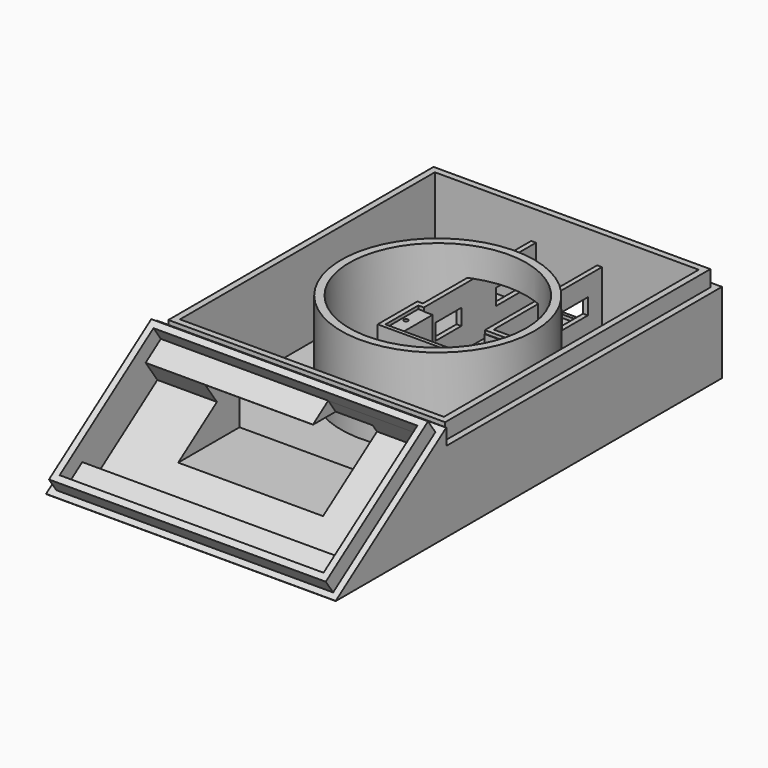
from build123d import *

# Parameters (mm, degrees)
SKETCH003_W     = 90
SKETCH003_H     = 150
PAD002_DEPTH    = 30
POCKET001_DEPTH = 90.001
SKETCH005_W     = 86
SKETCH005_H     = 48.43
PAD003_DEPTH    = 5
SKETCH006_W     = 82
SKETCH006_H     = 44.43
POCKET002_DEPTH = 5
SKETCH007_W     = 82
SKETCH007_H     = 30
POCKET003_DEPTH = 8
SKETCH009_W     = 30
SKETCH009_H     = 15
POCKET004_DEPTH = 8
SKETCH_W        = 45
SKETCH_H        = 17
POCKET_DEPTH    = 48.367922
SKETCH034_W     = 90
SKETCH034_H     = 107
POCKET017_DEPTH = 5
SKETCH031_W     = 86
SKETCH031_H     = 103
PAD_DEPTH       = 5
SKETCH032_W     = 82
SKETCH032_H     = 99
POCKET018_DEPTH = 27
SKETCH036_R     = 30
PAD013_DEPTH    = 27
SKETCH037_R     = 27.5
POCKET019_DEPTH = 27
PAD014_DEPTH    = 18
POCKET020_DEPTH = 18
SKETCH039_W     = 32.902219
SKETCH039_H     = 12.747755
POCKET021_DEPTH = 1
SKETCH040_W     = 10
SKETCH040_H     = 10
POCKET022_DEPTH = 6.087673
SKETCH041_W     = 10
SKETCH041_H     = 5
POCKET023_DEPTH = 22
SKETCH042_W     = 10
SKETCH042_H     = 7
POCKET024_DEPTH = 4
CHAMFER_SIZE    = 3
SKETCH049_R     = 0.625
POCKET029_DEPTH = 5


with BuildPart() as part:
    # Sketch003 (on Face2 of Pad016) → Pad002 (new body)
    with BuildSketch(Plane(origin=(0, 0, 0), x_dir=(1, 0, 0), z_dir=(0, 0, -1))):
        with Locations((0, 31.9)):
            Rectangle(SKETCH003_W, SKETCH003_H)
    extrude(amount=-PAD002_DEPTH)

    # Sketch004 → Pocket001 (cut, through all)
    with BuildSketch(Plane.YZ.offset(45)):
        Polygon((-107, 0), (-107, 30), (-64, 30), align=None)
    extrude(amount=-POCKET001_DEPTH, mode=Mode.SUBTRACT)

    # Sketch005 (on Face4 of Pocket001) → Pad003 (join)
    with BuildSketch(Plane(origin=(0, -35.03092, 50.210986), x_dir=(1, 0, 0), z_dir=(0, -0.572182, 0.820127))):
        with Locations((0, -61.595)):
            Rectangle(SKETCH005_W, SKETCH005_H)
    extrude(amount=PAD003_DEPTH)

    # Sketch006 (on Face20 of Pad003) → Pocket002 (cut)
    with BuildSketch(Plane(origin=(0, -37.891828, 54.311621), x_dir=(1, 0, 0), z_dir=(0, -0.572182, 0.820127))):
        with Locations((0, -61.595)):
            Rectangle(SKETCH006_W, SKETCH006_H)
    extrude(amount=-POCKET002_DEPTH, mode=Mode.SUBTRACT)

    # Sketch007 (on Face27 of Pocket002) → Pocket003 (cut)
    with BuildSketch(Plane(origin=(0, -35.03092, 50.210986), x_dir=(1, 0, 0), z_dir=(0, -0.572182, 0.820127))):
        with Locations((0, -61.595)):
            Rectangle(SKETCH007_W, SKETCH007_H)
    extrude(amount=-POCKET003_DEPTH, mode=Mode.SUBTRACT)

    # Sketch009 (on Face27 of Pocket003) → Pocket004 (cut)
    with BuildSketch(Plane(origin=(0, -35.03092, 50.210986), x_dir=(1, 0, 0), z_dir=(0, -0.572182, 0.820127))):
        with Locations((26, -46.88)):
            Rectangle(SKETCH009_W, SKETCH009_H)
    extrude(amount=-POCKET004_DEPTH, mode=Mode.SUBTRACT)

    # Sketch (on Face1 of Pocket004) → Pocket (cut, through all)
    with BuildSketch(Plane.XZ.offset(59.9)):
        with Locations((0, 15)):
            Rectangle(SKETCH_W, SKETCH_H)
    extrude(amount=POCKET_DEPTH, mode=Mode.SUBTRACT)

    # Sketch034 (on Face12 of Pocket) → Pocket017 (cut)
    with BuildSketch(Plane.XY.offset(30)):
        with Locations((0, -10.4)):
            Rectangle(SKETCH034_W, SKETCH034_H)
    extrude(amount=-POCKET017_DEPTH, mode=Mode.SUBTRACT)

    # Sketch031 (on Face12 of Pocket017) → Pad (join)
    with BuildSketch(Plane.XY.offset(25)):
        with Locations((0, -10.4)):
            Rectangle(SKETCH031_W, SKETCH031_H)
    extrude(amount=PAD_DEPTH)

    # Sketch032 (on Face42 of Pad) → Pocket018 (cut)
    with BuildSketch(Plane.XY.offset(30)):
        with Locations((0, -10.4)):
            Rectangle(SKETCH032_W, SKETCH032_H)
    extrude(amount=-POCKET018_DEPTH, mode=Mode.SUBTRACT)

    # Sketch036 (on Face44 of Pocket018) → Pad013 (join)
    with BuildSketch(Plane.XY.offset(3)):
        with Locations((0, -11)):
            Circle(SKETCH036_R)
    extrude(amount=PAD013_DEPTH)

    # Sketch037 (on Face48 of Pad013) → Pocket019 (cut)
    with BuildSketch(Plane.XY.offset(30)):
        with Locations((0, -11)):
            Circle(SKETCH037_R)
    extrude(amount=-POCKET019_DEPTH, mode=Mode.SUBTRACT)

    # Sketch035 (on Face44 of Pocket019) → Pad014 (join)
    with BuildSketch(Plane.XY.offset(3)):
        Polygon((-11, 39), (11, 39), (11, -3.042585), (23.265929, -3.042585), (23.265929, -18.479307), (-12.708895, -18.479307), (-12.708895, -3.042585), (-11, -3.042585), align=None)
    extrude(amount=PAD014_DEPTH)

    # Sketch038 (on Face51 of Pad014) → Pocket020 (cut)
    with BuildSketch(Plane.XY.offset(21)):
        Polygon((-9.5, 39), (9.5, 39), (9.5, -4.750349), (16.930769, -4.750349), (16.930769, -17.32518), (-6.621222, -17.32518), (-6.621222, -4.750349), (-9.5, -4.750349), align=None)
    extrude(amount=-POCKET020_DEPTH, mode=Mode.SUBTRACT)

    # Sketch039 (on Face65 of Pocket020) → Pocket021 (cut)
    with BuildSketch(Plane.XY.offset(21)):
        with Locations((5.242986, -10.951303)):
            Rectangle(SKETCH039_W, SKETCH039_H)
    extrude(amount=-POCKET021_DEPTH, mode=Mode.SUBTRACT)

    # Sketch040 (on Face76 of Pocket021) → Pocket022 (cut)
    with BuildSketch(Plane(origin=(-12.708895, 0, 0), x_dir=(0, -1, 0), z_dir=(-1, 0, 0))):
        with Locations((11, 8)):
            Rectangle(SKETCH040_W, SKETCH040_H)
    extrude(amount=-POCKET022_DEPTH, mode=Mode.SUBTRACT)

    # Sketch041 (on Face48 of Pocket022) → Pocket023 (cut)
    with BuildSketch(Plane(origin=(-11, 0, 0), x_dir=(0, -1, 0), z_dir=(-1, 0, 0))):
        with Locations((-5, 12.5)):
            Rectangle(SKETCH041_W, SKETCH041_H)
        with Locations((-28.539409, 12.5)):
            Rectangle(SKETCH041_W, SKETCH041_H)
    extrude(amount=-POCKET023_DEPTH, mode=Mode.SUBTRACT)

    # Sketch042 (on Face6 of Pocket023) → Pocket024 (cut)
    with BuildSketch(Plane(origin=(0, 43.1, 0), x_dir=(-1, 0, 0), z_dir=(0, 1, 0))):
        with Locations((0, 7.5)):
            Rectangle(SKETCH042_W, SKETCH042_H)
    extrude(amount=-POCKET024_DEPTH, mode=Mode.SUBTRACT)

    # Chamfer
    chamfer_edges = [part.edges().sort_by_distance(p)[0] for p in [
        (0, 43.1, 4),
        (-5, 43.1, 7.5),
        (5, 43.1, 7.5),
        (0, 43.1, 11),
    ]]
    chamfer(chamfer_edges, length=CHAMFER_SIZE)

    # Sketch049 (on Face82 of Chamfer) → Pocket029 (cut)
    with BuildSketch(Plane.XY.offset(20)):
        with Locations((-9.865781, -11)):
            Circle(SKETCH049_R)
        with Locations((20.134219, -11)):
            Circle(SKETCH049_R)
    extrude(amount=-POCKET029_DEPTH, mode=Mode.SUBTRACT)


solid = part.part
